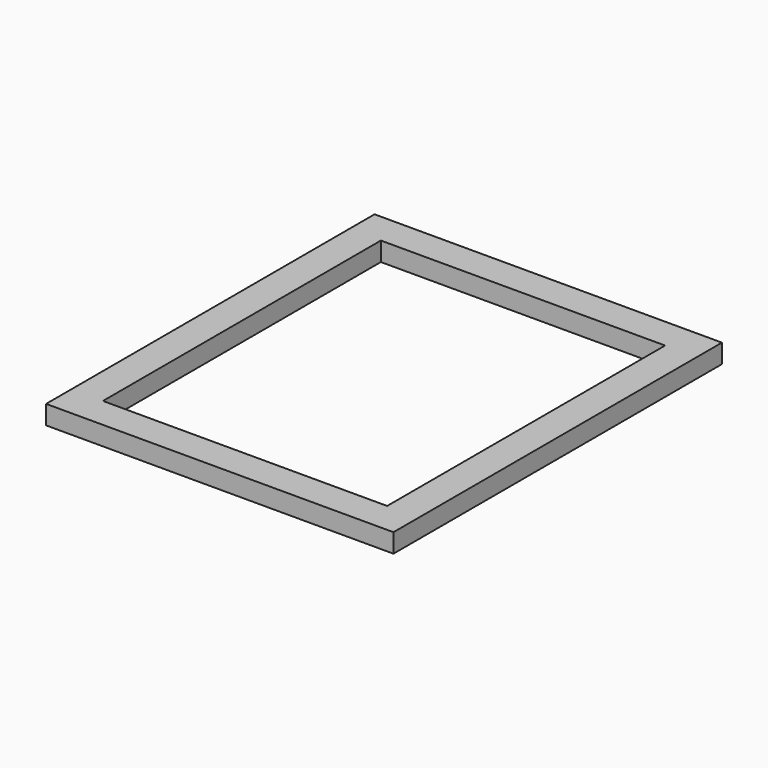
from build123d import *

# Parameters (mm, degrees)
F2_W = 50
F2_H = 30


with BuildPart() as f1:
    # F1: sweep along a path in F0
    with BuildLine(Plane.XY) as f1_path:
        Line((250, 300), (250, -300))
        Line((250, -300), (-250, -300))
        Line((-250, -300), (-250, 300))
        Line((-250, 300), (250, 300))
    # F2 (on Front) → F1 (sweep)
    with BuildSketch(Plane.XZ):
        with Locations((250, 0)):
            Rectangle(F2_W, F2_H)
    sweep(path=f1_path.line, transition=Transition.RIGHT)


solid = f1.part
